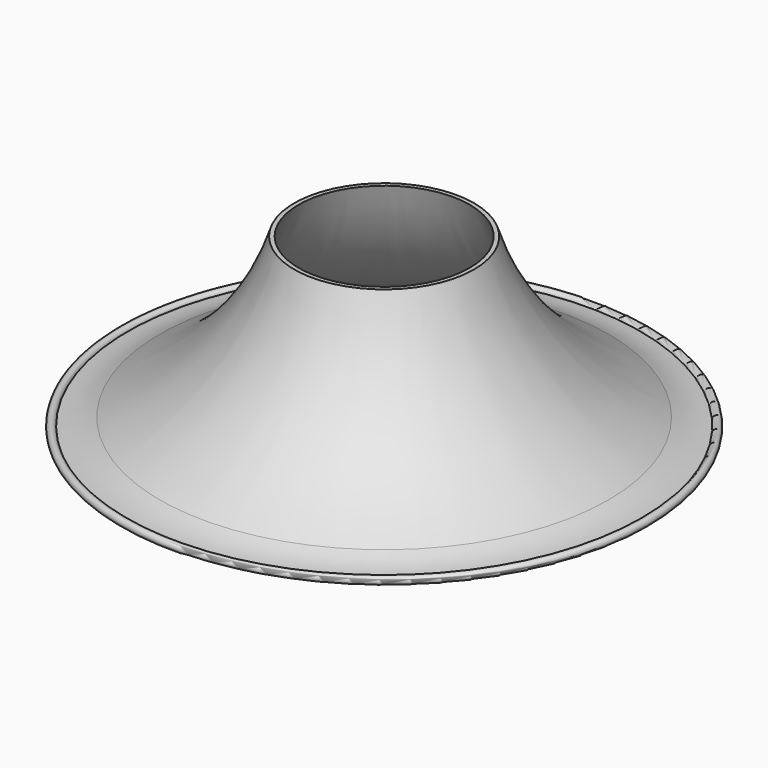
from build123d import *


with BuildPart() as f1:
    # F0 (on Front) → F1 (revolve)
    with BuildSketch(Plane.XZ):
        with BuildLine():
            Line((105.4, 0), (106.4, 0))
            ThreePointArc((106.4, 0), (107.5682, 2.693302), (104.803506, 1.705864))
            ThreePointArc((104.803506, 1.705864), (98.126839, 2.584605), (91.808444, 4.914402))
            ThreePointArc((91.808444, 4.914402), (57.62064, 31.81586), (36.776793, 70))
            Line((36.776793, 70), (35, 70))
            ThreePointArc((35, 70), (56.154601, 30.917261), (91.046937, 3.394498))
            ThreePointArc((91.046937, 3.394498), (98.025499, 0.86017), (105.4, 0))
        make_face()
    revolve(axis=Axis((0, 0, 35), (0, 0, 1)))


solid = f1.part
